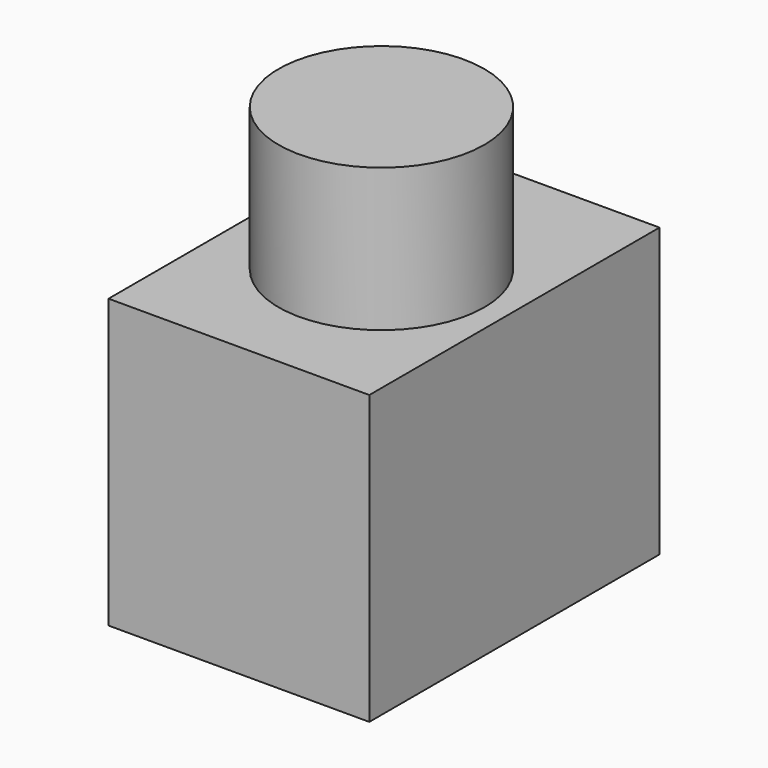
from build123d import *

# Parameters (mm, degrees)
F0_W     = 23.271755
F0_H     = 25.679469
F1_DEPTH = 32.363089
F2_R     = 9.178522
F3_DEPTH = 12.762818


with BuildPart() as f1:
    # F0 (on Front) → F1 (new body)
    with BuildSketch(Plane.XZ):
        with Locations((33.43467, -12.839734)):
            Rectangle(F0_W, F0_H)
    extrude(amount=F1_DEPTH)

    # F2 (on face) → F3 (join)
    with BuildSketch(Plane.XY):
        with Locations((33.885341, -17.028131)):
            Circle(F2_R)
    extrude(amount=F3_DEPTH)


solid = f1.part
